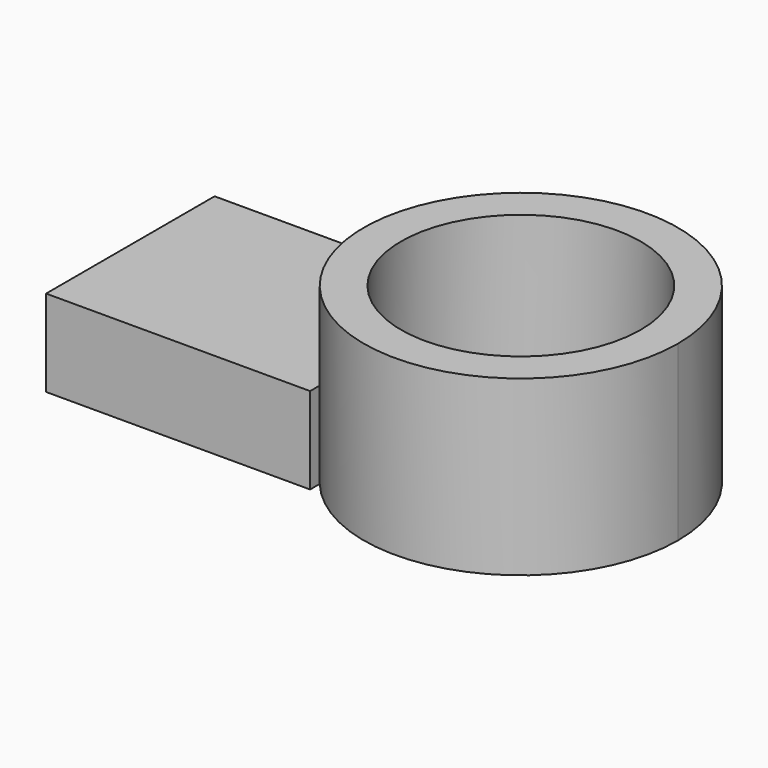
from build123d import *

# Parameters (mm, degrees)
F1_DEPTH = 12.7
F0_R     = 17.565461
F2_DEPTH = 25.4


with BuildPart() as f1:
    # F0 (on Top) → F1 (new body)
    with BuildSketch(Plane.XY):
        with BuildLine():
            Line((5.089165, 14.901192), (-33.426996, 14.901192))
            Line((-33.426996, 14.901192), (-33.426996, -15.975151))
            Line((-33.426996, -15.975151), (5.273779, -15.975151))
            Line((5.273779, -15.975151), (5.273779, -14.2132))
            ThreePointArc((5.273779, -14.2132), (-0.004075, 0.311115), (5.089165, 14.901192))
        make_face()
        with BuildLine():
            Line((5.273779, 14.901192), (5.089165, 14.901192))
            ThreePointArc((5.089165, 14.901192), (-0.004075, 0.311115), (5.273779, -14.2132))
            Line((5.273779, -14.2132), (5.273779, 14.901192))
        make_face()
    extrude(amount=F1_DEPTH)


with BuildPart() as f2:
    # F0 (on Top) → F2 (new body)
    with BuildSketch(Plane.XY):
        with BuildLine():
            ThreePointArc((46.047813, 0.45712), (30.679591, 22.172564), (5.089165, 14.901192))
            Line((5.089165, 14.901192), (5.273779, 14.901192))
            Line((5.273779, 14.901192), (5.273779, -14.2132))
            ThreePointArc((5.273779, -14.2132), (30.817132, -21.209329), (46.047813, 0.45712))
        make_face()
        with Locations((23.021638, 0.45712)):
            Circle(F0_R, mode=Mode.SUBTRACT)
        with BuildLine():
            Line((5.273779, 14.901192), (5.089165, 14.901192))
            ThreePointArc((5.089165, 14.901192), (-0.004075, 0.311115), (5.273779, -14.2132))
            Line((5.273779, -14.2132), (5.273779, 14.901192))
        make_face()
    extrude(amount=F2_DEPTH)


solid = Compound([f1.part, f2.part])
